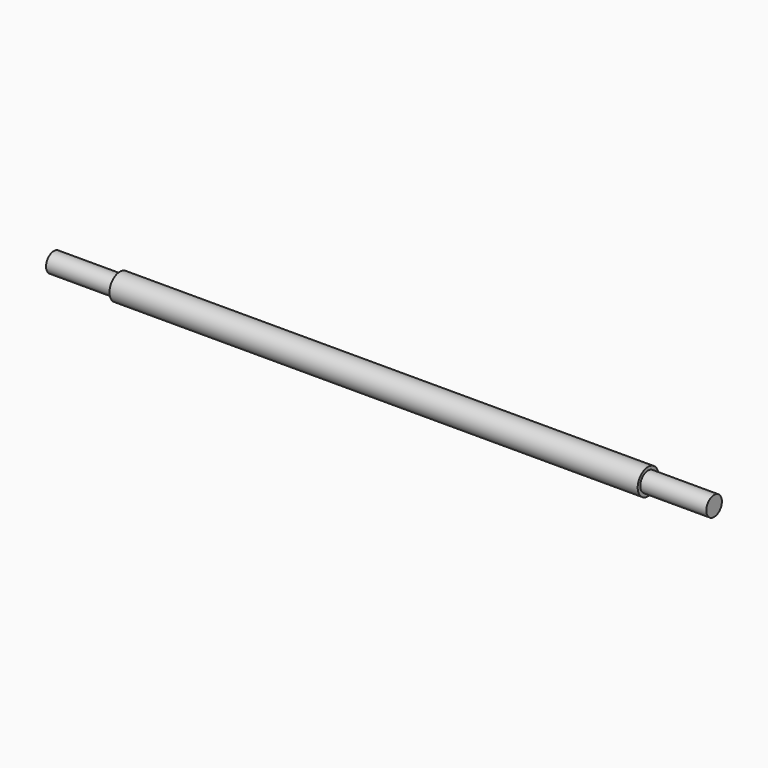
from build123d import *

# Parameters (mm, degrees)
F0_R          = 7.5
F2_DEPTH      = 254
F2_DEPTH_BACK = 254
F1_R          = 10
F3_DEPTH      = 203.2
F3_DEPTH_BACK = 203.2


with BuildPart() as f2:
    # F0 (on Right) → F2 (new body, two sides)
    with BuildSketch(Plane.YZ) as f2_sk:
        Circle(F0_R)
    extrude(amount=F2_DEPTH)
    extrude(f2_sk.sketch, amount=-F2_DEPTH_BACK)

    # F1 (on Right) → F3 (join, two sides)
    with BuildSketch(Plane.YZ) as f3_sk:
        Circle(F1_R)
    extrude(amount=F3_DEPTH)
    extrude(f3_sk.sketch, amount=-F3_DEPTH_BACK)


solid = f2.part
